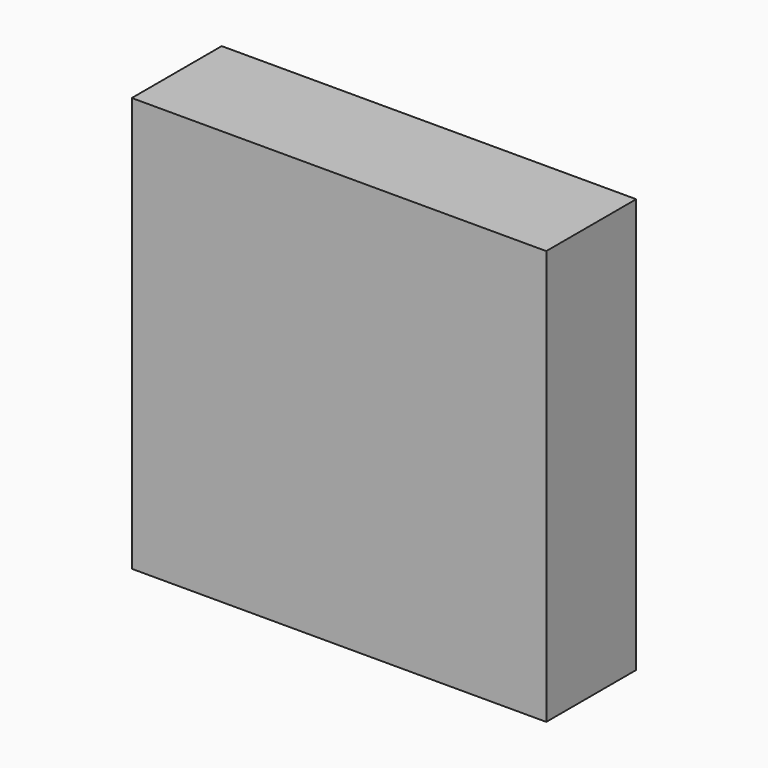
from build123d import *

# Parameters (mm, degrees)
F0_W     = 177
F0_H     = 177
F1_DEPTH = 48
F2_DEPTH = 25


with BuildPart() as f1:
    # F0 (on Front) → F1 (new body)
    with BuildSketch(Plane.XZ):
        Rectangle(F0_W, F0_H)
    extrude(amount=F1_DEPTH)

    # F0 (on Front) → F2 (join)
    with BuildSketch(Plane.XZ):
        Rectangle(F0_W, F0_H)
    extrude(amount=F2_DEPTH)


solid = f1.part
